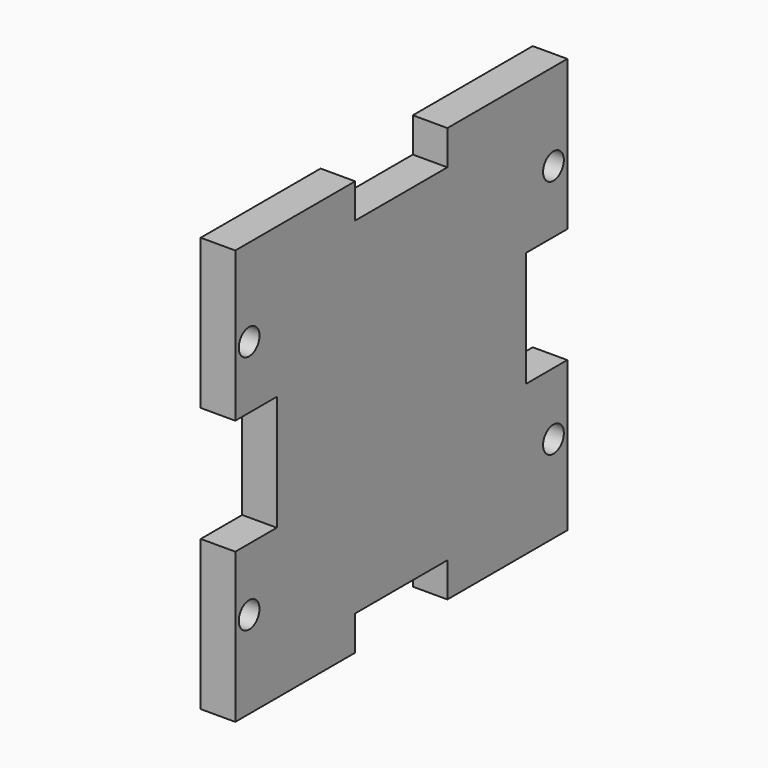
from build123d import *

# Parameters (mm, degrees)
F0_W     = 20
F0_H     = 6
F0_W_2   = 9
F0_H_2   = 20
F1_DEPTH = 6
F2_DEPTH = 6
F3_R     = 2.25
F3_R_2   = 1.143
F4_DEPTH = 3
F5_DEPTH = 6.001


with BuildPart() as f1:
    # F0 (on Right) → F1 (new body)
    with BuildSketch(Plane.YZ):
        Polygon((-36, -10), (-36, -36), (-10, -36), (-10, -30), (10, -30), (10, -36), (36, -36), (36, -10), (27, -10), (27, 10), (36, 10), (36, 36), (10, 36), (10, 30), (-10, 30), (-10, 36), (-36, 36), (-36, 10), (-27, 10), (-27, -10), align=None)
        with Locations((0, -33)):
            Rectangle(F0_W, F0_H)
        with Locations((-31.5, 0)):
            Rectangle(F0_W_2, F0_H_2)
        with Locations((31.5, 0)):
            Rectangle(F0_W_2, F0_H_2)
        with Locations((0, 33)):
            Rectangle(F0_W, F0_H)
    extrude(amount=F1_DEPTH)

    # F0 (on Right) → F2 (cut, through all)
    with BuildSketch(Plane.YZ):
        with Locations((0, 33)):
            Rectangle(F0_W, F0_H)
        with Locations((31.5, 0)):
            Rectangle(F0_W_2, F0_H_2)
        with Locations((0, -33)):
            Rectangle(F0_W, F0_H)
        with Locations((-31.5, 0)):
            Rectangle(F0_W_2, F0_H_2)
    extrude(amount=F2_DEPTH, mode=Mode.SUBTRACT)

    # F3 (on face) → F4 (cut)
    with BuildSketch(Plane.YZ.offset(6)):
        with Locations((-33, 20.857)):
            Circle(F3_R)
        with Locations((-33, 20.857)):
            Circle(F3_R_2, mode=Mode.SUBTRACT)
        with Locations((-33, -20.857)):
            Circle(F3_R)
        with Locations((-33, -20.857)):
            Circle(F3_R_2, mode=Mode.SUBTRACT)
        with Locations((33, 20.857)):
            Circle(F3_R)
        with Locations((33, 20.857)):
            Circle(F3_R_2, mode=Mode.SUBTRACT)
        with Locations((33, -20.857)):
            Circle(F3_R)
        with Locations((33, -20.857)):
            Circle(F3_R_2, mode=Mode.SUBTRACT)
    extrude(amount=-F4_DEPTH, mode=Mode.SUBTRACT)

    # F5 (cut, through all): faces of the model
    f5_faces = [f1.faces().sort_by_distance(p)[0] for p in [
        (6, -33, 20.857),
        (6, 33, 20.857),
        (6, 33, -20.857),
        (6, -33, -20.857),
    ]]
    extrude(f5_faces, amount=-F5_DEPTH, mode=Mode.SUBTRACT)


solid = f1.part
